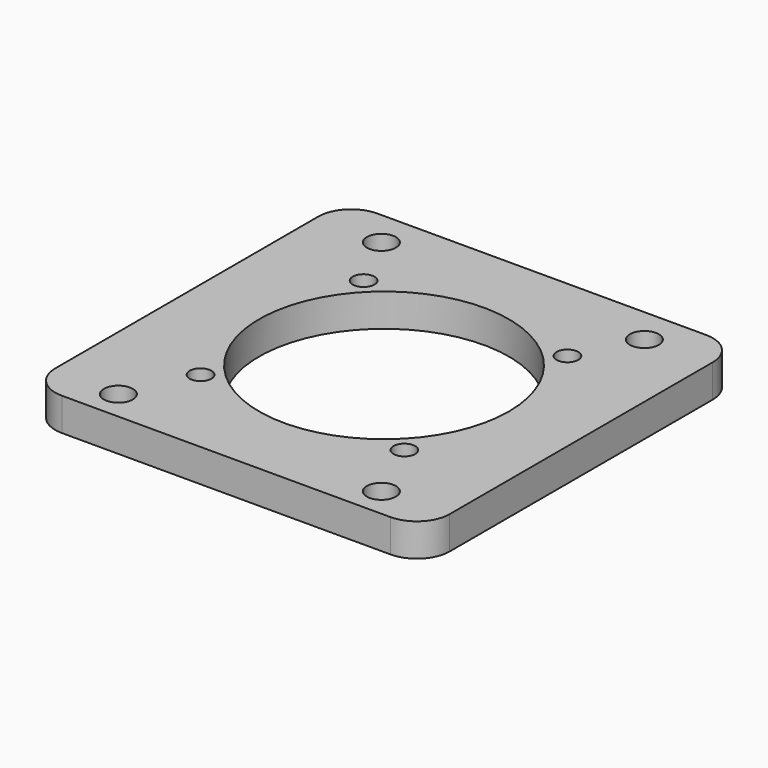
from build123d import *

# Parameters (mm, degrees)
F0_W     = 60
F0_H     = 60
F0_R     = 19
F1_DEPTH = 5
F2_D     = 3.3
F2_DEPTH = 13.8
F2_TIP   = 0.9914200214
F4_D     = 4.4
F4_DEPTH = 13.8
F4_TIP   = 1.3218933619
F5_R     = 5


with BuildPart() as f1:
    # F0 (on Top) → F1 (new body)
    with BuildSketch(Plane.XY):
        Rectangle(F0_W, F0_H)
        Circle(F0_R, mode=Mode.SUBTRACT)
    extrude(amount=F1_DEPTH)

    # F2
    with Locations(Plane(origin=(0, 0, 0), x_dir=(1, 0, 0), z_dir=(0, 0, -1))):
        with Locations((-15.5, -15.5), (15.5, -15.5), (15.5, 15.5), (-15.5, 15.5)):
            Hole(F2_D / 2, depth=F2_DEPTH)
            with Locations((0, 0, -(F2_DEPTH + F2_TIP / 2))):  # 118° drill point
                Cone(0, F2_D / 2, F2_TIP, mode=Mode.SUBTRACT)

    # F4
    with Locations(Plane.XY.offset(5)):
        with Locations((-20, 24.5), (20, 24.5), (20, -25.5), (-20, -25.5)):
            Hole(F4_D / 2, depth=F4_DEPTH)
            with Locations((0, 0, -(F4_DEPTH + F4_TIP / 2))):  # 118° drill point
                Cone(0, F4_D / 2, F4_TIP, mode=Mode.SUBTRACT)

    # F5
    f5_edges = [f1.edges().sort_by_distance(p)[0] for p in [
        (-30, 30, 2.5),
        (30, 30, 2.5),
        (30, -30, 2.5),
        (-30, -30, 2.5),
    ]]
    fillet(f5_edges, radius=F5_R)


solid = f1.part
